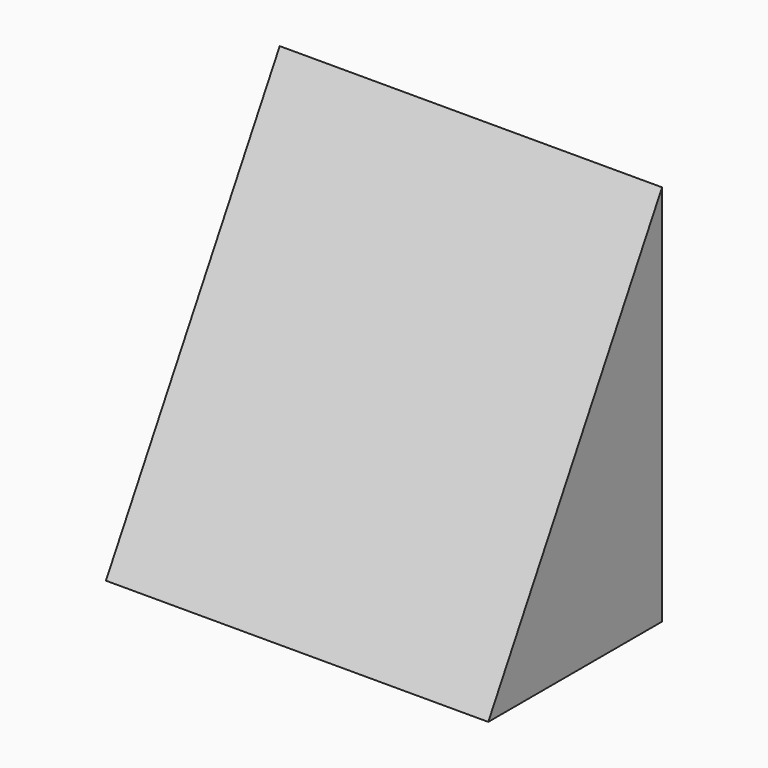
from build123d import *

# Parameters (mm, degrees)
F0_W      = 88
F0_H      = 88
F1_DEPTH  = 25
F3_DEPTH  = 50
F4_T      = -1
F5_W      = 68
F5_H      = 78
F4_FACE_W = 86
F4_FACE_H = 84.2157470514
F6_DEPTH  = 1


with BuildPart() as f1:
    # F0 (on Front) → F1 (new body, symmetric)
    with BuildSketch(Plane.XZ):
        Rectangle(F0_W, F0_H)
    extrude(amount=F1_DEPTH, both=True)

    # F2 (on Right) → F3 (cut, symmetric)
    with BuildSketch(Plane.YZ):
        Polygon((-25, -44), (25, 44), (-25, 44), align=None)
    extrude(amount=F3_DEPTH, both=True, mode=Mode.SUBTRACT)

    # F4
    f4_openings = [f1.faces().sort_by_distance(p)[0] for p in [
        (0, 0, -44),
    ]]
    offset(amount=F4_T, openings=f4_openings)

    # F5 (on face) + F4_face (on face) → F6 (cut)
    with BuildSketch(Plane(origin=(0, 25, 0), x_dir=(-1, 0, 0), z_dir=(0, 1, 0))):
        with Locations((0, -5)):
            Rectangle(F5_W, F5_H)
    with BuildSketch(Plane(origin=(0, 24, -1.8921264743), x_dir=(1, 0, 0), z_dir=(0, -1, 0))):
        Rectangle(F4_FACE_W, F4_FACE_H)
    extrude(amount=-F6_DEPTH, dir=(0, 1, 0), mode=Mode.SUBTRACT)


solid = f1.part
